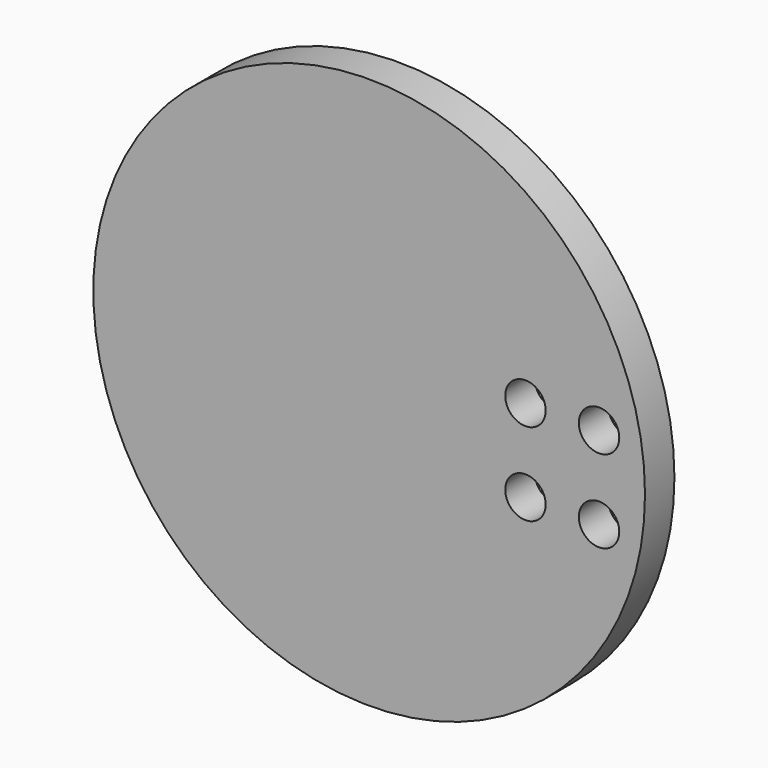
from build123d import *

# Parameters (mm, degrees)
CYLINDER019_R          = 2.2
CYLINDER019_DEPTH      = 26
CYLINDER019_ROLL_ANGLE = -90
ARRAY005_X_COUNT       = 2
ARRAY005_X_PITCH       = 8
ARRAY005_Z_COUNT       = 2
ARRAY005_Z_PITCH       = 9
CYLINDER018_R          = 30
CYLINDER018_DEPTH      = 4
CYLINDER018_ROLL_ANGLE = -90


with BuildPart() as obj1:
    # Cylinder019 → Cylinder019 (new body)
    with BuildSketch(Plane.XY):
        Circle(CYLINDER019_R)
    extrude(amount=CYLINDER019_DEPTH)


with BuildPart() as obj1_1:
    # Cylinder019 roll: moved
    add(obj1.part.rotate(Axis((0, 0, 0), (1, 0, 0)), CYLINDER019_ROLL_ANGLE))


with BuildPart() as obj1_2:
    # Cylinder019 placement: moved
    add(obj1_1.part.moved(Location((202, 0, 4))))

    # Array005 X: obj1_2


with BuildPart() as obj1_3:
    add(obj1_2.part)
    with Locations(*[(i * ARRAY005_X_PITCH, 0, 0) for i in range(1, ARRAY005_X_COUNT)]):
        add(obj1_2.part)

    # Array005 Z: obj1_2


with BuildPart() as obj1_4:
    add(obj1_3.part)
    with Locations(*[(0, 0, i * ARRAY005_Z_PITCH) for i in range(1, ARRAY005_Z_COUNT)]):
        add(obj1_3.part)


with BuildPart() as obj2:
    # Cylinder018 → Cylinder018 (new body)
    with BuildSketch(Plane.XY):
        Circle(CYLINDER018_R)
    extrude(amount=CYLINDER018_DEPTH)


with BuildPart() as obj2_1:
    # Cylinder018 roll: moved
    add(obj2.part.rotate(Axis((0, 0, 0), (1, 0, 0)), CYLINDER018_ROLL_ANGLE))


with BuildPart() as obj2_2:
    # Cylinder018 placement: moved
    add(obj2_1.part.moved(Location((185, 20, 8.5))))

    # Cut015: cut obj1
    add(obj1_4.part, mode=Mode.SUBTRACT)


with BuildPart() as obj2_3:
    # Cut015 placement: moved
    add(obj2_2.part.moved(Location((-171, -4, 0))))


solid = obj2_3.part
